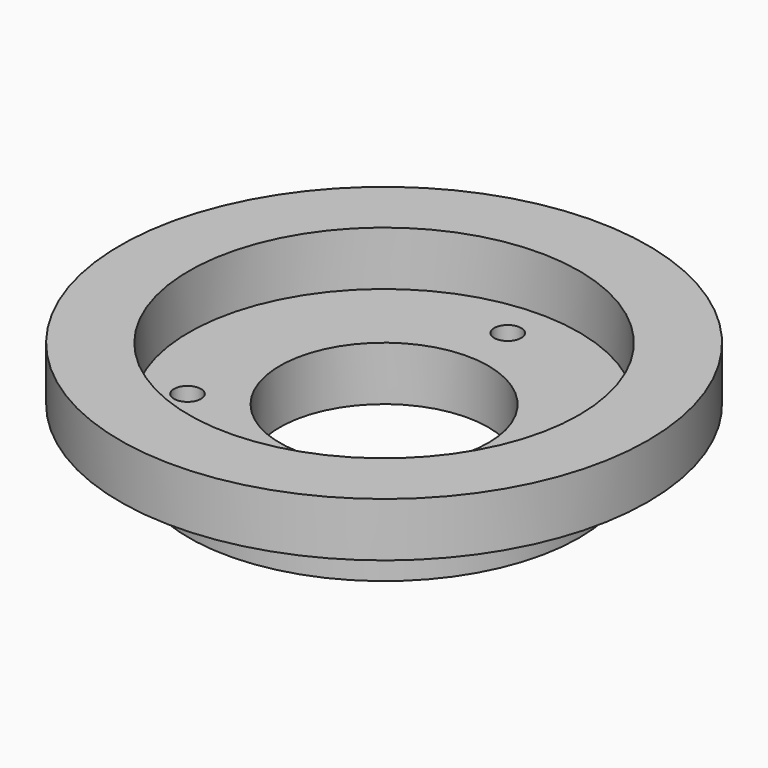
from build123d import *

# Parameters (mm, degrees)
F0_R     = 25.25
F0_R_2   = 1.75
F0_R_3   = 13.5
F1_DEPTH = 7
F0_R_4   = 34.163
F2_DEPTH = 7


with BuildPart() as f1:
    # F0 (on Top) → F1 (new body)
    with BuildSketch(Plane.XY):
        Circle(F0_R)
        with Locations((-16.944302, -10.625)):
            Circle(F0_R_2, mode=Mode.SUBTRACT)
        with Locations((16.944302, -10.625)):
            Circle(F0_R_2, mode=Mode.SUBTRACT)
        Circle(F0_R_3, mode=Mode.SUBTRACT)
        with Locations((0, 20)):
            Circle(F0_R_2, mode=Mode.SUBTRACT)
    extrude(amount=-F1_DEPTH)


with BuildPart() as f2:
    # F0 (on Top) → F2 (new body)
    with BuildSketch(Plane.XY):
        Circle(F0_R_4)
        Circle(F0_R, mode=Mode.SUBTRACT)
    extrude(amount=F2_DEPTH)


solid = Compound([f1.part, f2.part])
